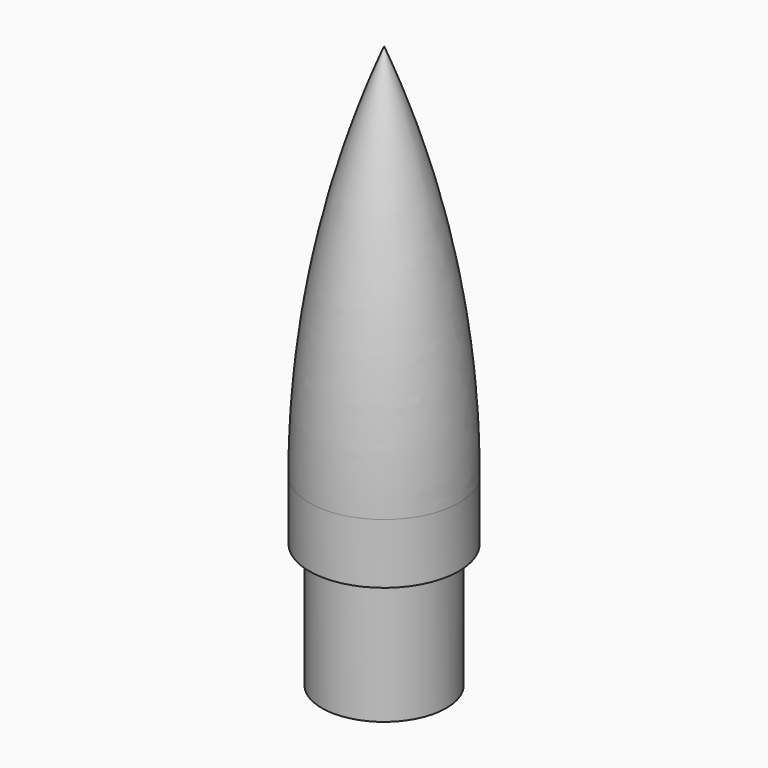
from build123d import *

# Parameters (mm, degrees)
F2_R     = 0.127
F3_DEPTH = 12.7


with BuildPart() as f1:
    # F0 (on Front) → F1 (revolve)
    with BuildSketch(Plane.XZ):
        with BuildLine():
            ThreePointArc((2.54, 37.66097), (-1.306512, 76.95352), (-12.7, 114.754163))
            Line((-12.7, 114.754163), (-12.7, 0))
            Line((-12.7, 0), (0, 0))
            Line((0, 0), (0, 25.4))
            Line((0, 25.4), (2.54, 25.4))
            Line((2.54, 25.4), (2.54, 37.66097))
        make_face()
    revolve(axis=Axis((-12.7, 0, -6.232044), (0, 0, -1)))

    # F2 (on face) → F3 (cut)
    with BuildSketch(Plane(origin=(0, 0, 0), x_dir=(1, 0, 0), z_dir=(0, 0, -1))):
        with Locations((-12.7, 0)):
            Circle(F2_R)
    extrude(amount=-F3_DEPTH, mode=Mode.SUBTRACT)


solid = f1.part
